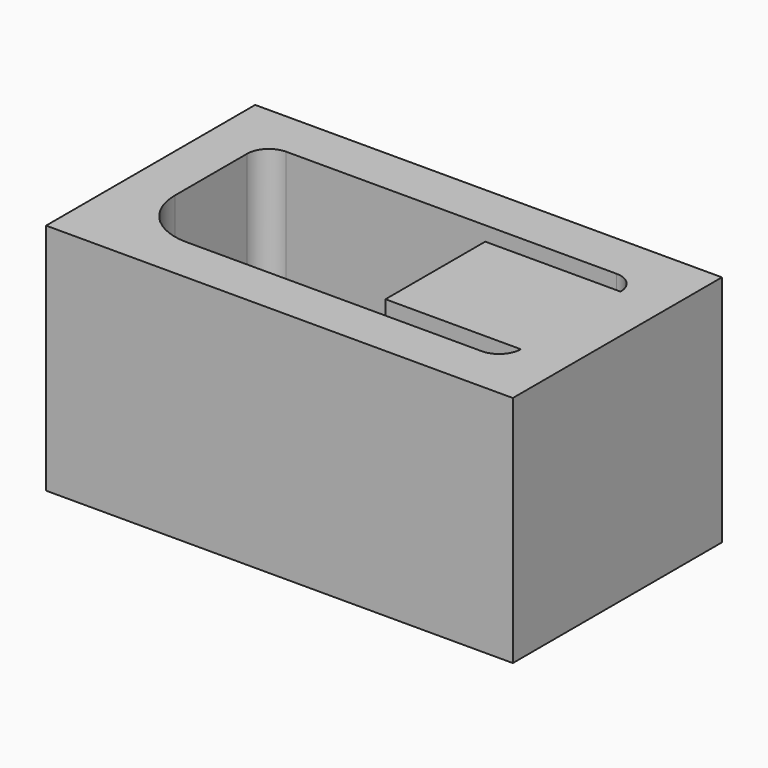
from build123d import *

# Parameters (mm, degrees)
F0_W      = 50
F0_H      = 28
F1_DEPTH  = 25
F1_FACE_W = 13.360392
F1_FACE_H = 25
F2_DEPTH  = 14.5


with BuildPart() as f1:
    # F0 (on Top) → F1 (new body)
    with BuildSketch(Plane.XY):
        with Locations((-36.145134, 41.349981)):
            Rectangle(F0_W, F0_H)
        with BuildLine():
            ThreePointArc((-56.145134, 48.030177), (-55.465679, 49.670526), (-53.82533, 50.349981))
            Line((-53.82533, 50.349981), (-18.464939, 50.349981))
            ThreePointArc((-18.464939, 50.349981), (-16.824589, 49.670526), (-16.145134, 48.030177))
            Line((-16.145134, 48.030177), (-16.145134, 34.669786))
            ThreePointArc((-16.145134, 34.669786), (-16.824589, 33.029436), (-18.464939, 32.349981))
            Line((-18.464939, 32.349981), (-50.145134, 32.349981))
            ThreePointArc((-50.145134, 32.349981), (-54.387775, 34.107341), (-56.145134, 38.349981))
            Line((-56.145134, 38.349981), (-56.145134, 48.030177))
        make_face(mode=Mode.SUBTRACT)
    extrude(amount=F1_DEPTH)

    # F1_face (on face) → F2 (join)
    with BuildSketch(Plane(origin=(-16.145134, 41.349981, 12.5), x_dir=(0, -1, 0), z_dir=(-1, 0, 0))):
        Rectangle(F1_FACE_W, F1_FACE_H)
    extrude(amount=F2_DEPTH)


solid = f1.part
